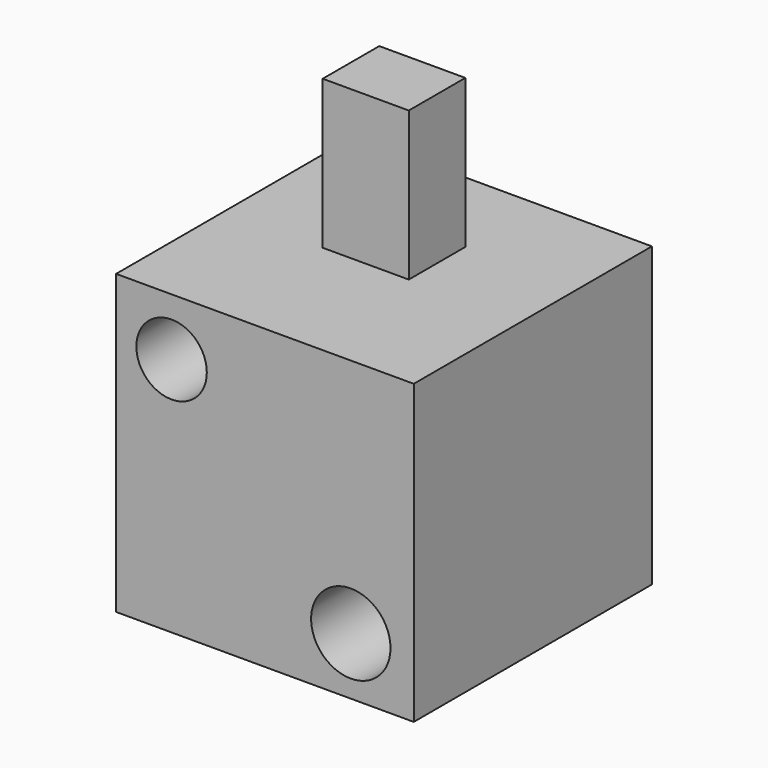
from build123d import *

# Parameters (mm, degrees)
F0_W     = 50
F0_H     = 50
F1_DEPTH = 50
F2_R     = 5.916819
F2_R_2   = 6.667028
F3_DEPTH = 50.001
F4_W     = 14.457899
F4_H     = 11.871012
F5_DEPTH = 25


with BuildPart() as f1:
    # F0 (on Top) → F1 (new body)
    with BuildSketch(Plane.XY):
        with Locations((-5.997218, 2.292054)):
            Rectangle(F0_W, F0_H)
    extrude(amount=F1_DEPTH)

    # F2 (on face) → F3 (cut, through all)
    with BuildSketch(Plane.XZ.offset(22.707946)):
        with Locations((-21.676753, 40.365946)):
            Circle(F2_R)
        with Locations((8.427949, 9.634061)):
            Circle(F2_R_2)
    extrude(amount=-F3_DEPTH, mode=Mode.SUBTRACT)

    # F4 (on face) → F5 (join)
    with BuildSketch(Plane.XY.offset(50)):
        with Locations((-7.228949, 5.935506)):
            Rectangle(F4_W, F4_H)
    extrude(amount=F5_DEPTH)


solid = f1.part
